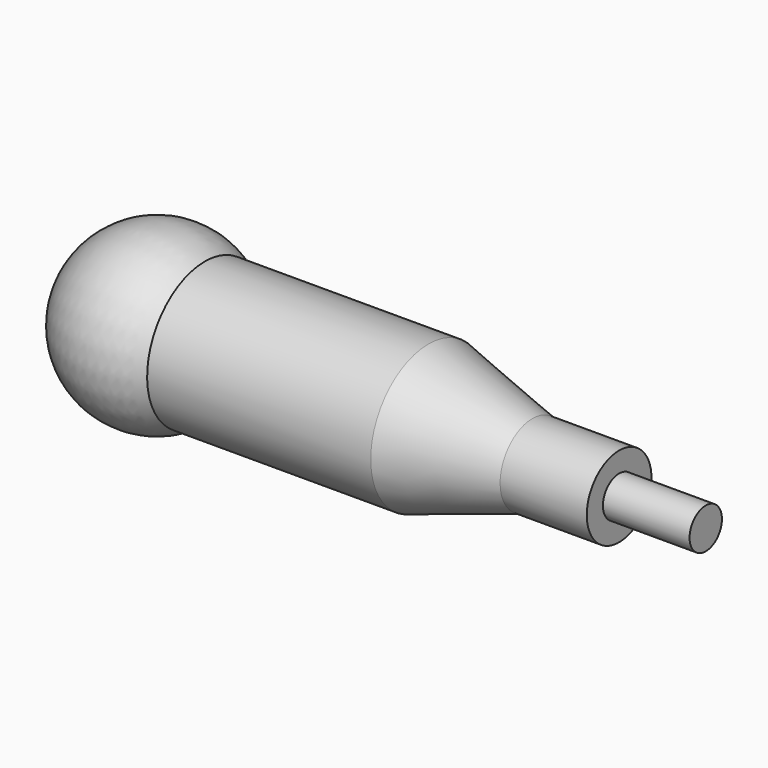
from build123d import *


with BuildPart() as f1:
    # F0 (on Front) → F1 (revolve)
    with BuildSketch(Plane.XZ):
        with BuildLine():
            Line((47, 12.5), (8.291562, 12.5))
            ThreePointArc((8.291562, 12.5), (-7.093186, 13.21691), (-15, 0))
            Line((-15, 0), (95, 0))
            Line((95, 0), (95, 3.5))
            Line((95, 3.5), (80, 3.5))
            Line((80, 3.5), (80, 7))
            Line((80, 7), (65, 7))
            Line((65, 7), (47, 12.5))
        make_face()
    revolve(axis=Axis((40, 0, 0), (1, 0, 0)))


solid = f1.part
